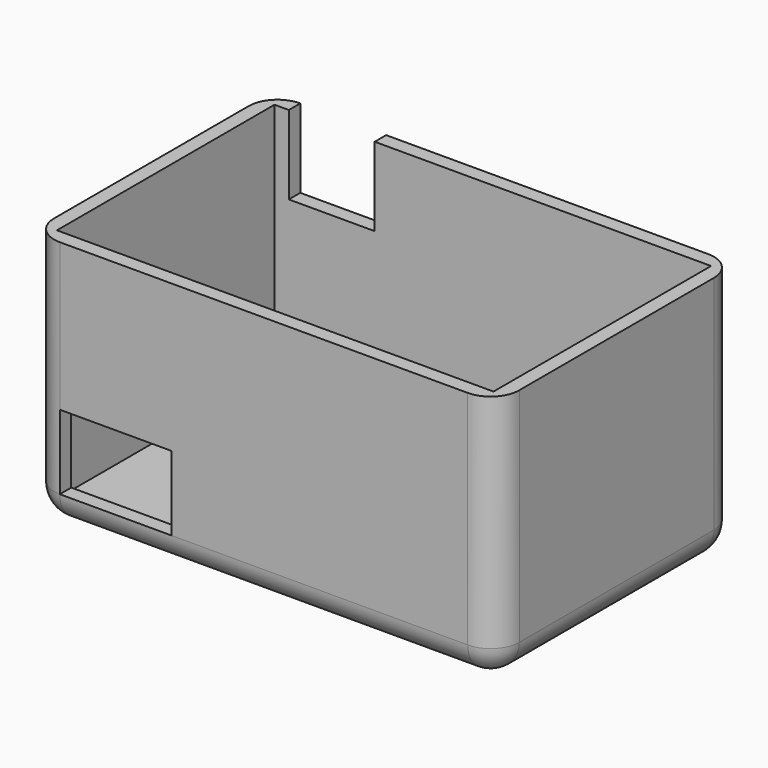
from build123d import *

# Parameters (mm, degrees)
F1_DEPTH = 44.45
F2_T     = -2.54
F3_R     = 5.08
F4_R     = 5.08
F5_W     = 19.812
F5_H     = 13.208
F6_DEPTH = 5.588
F7_W     = 15.24
F7_H     = 15.325371
F8_DEPTH = 6.604


with BuildPart() as f1:
    # F0 (on Top) → F1 (new body)
    with BuildSketch(Plane.XY):
        Polygon((-38.1, 27.86136), (-38.1, 1.19136), (-38.1, -25.47864), (44.45, -25.47864), (44.45, 1.19136), (44.45, 27.86136), align=None)
    extrude(amount=F1_DEPTH)

    # F2
    f2_openings = [f1.faces().sort_by_distance(p)[0] for p in [
        (3.175, 1.19136, 44.45),
    ]]
    offset(amount=F2_T, openings=f2_openings)

    # F3
    f3_edges = [f1.edges().sort_by_distance(p)[0] for p in [
        (-38.1, 27.86136, 22.225),
        (-38.1, -25.47864, 22.225),
        (44.45, -25.47864, 22.225),
        (44.45, 27.86136, 22.225),
    ]]
    fillet(f3_edges, radius=F3_R)

    # F4
    f4_edges = [f1.edges().sort_by_distance(p)[0] for p in [
        (3.175, 27.86136, 0),
        (42.962102, 26.373463, 0),
        (-36.612102, 26.373463, 0),
        (44.45, 1.19136, 0),
        (-38.1, 1.19136, 0),
        (42.962102, -23.990742, 0),
        (-36.612102, -23.990742, 0),
        (3.175, -25.47864, 0),
    ]]
    fillet(f4_edges, radius=F4_R)

    # F5 (on face) → F6 (cut)
    with BuildSketch(Plane.XZ.offset(25.47864)):
        with Locations((-23.114, 11.684)):
            Rectangle(F5_W, F5_H)
    extrude(amount=-F6_DEPTH, mode=Mode.SUBTRACT)

    # F7 (on face) → F8 (cut)
    with BuildSketch(Plane(origin=(0, 27.86136, 0), x_dir=(-1, 0, 0), z_dir=(0, 1, 0))):
        with Locations((25.4, 38.142685)):
            Rectangle(F7_W, F7_H)
    extrude(amount=-F8_DEPTH, mode=Mode.SUBTRACT)


solid = f1.part
